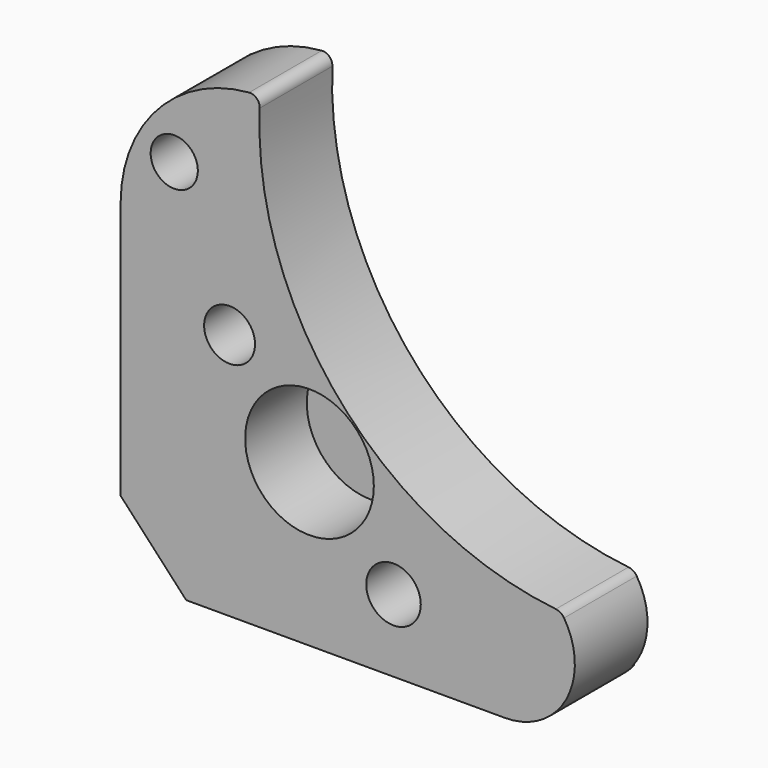
from build123d import *

# Parameters (mm, degrees)
F1_DEPTH = 17
F2_R     = 11.691727
F3_DEPTH = 14
F4_R     = 4.624372
F4_R_2   = 4.285959
F4_R_3   = 4.957168
F5_DEPTH = 25
F7_DEPTH = 0.5


with BuildPart() as f1:
    # F0 (on Front) → F1 (new body)
    with BuildSketch(Plane.XZ):
        with BuildLine():
            Line((-40, -27.427316), (-28.084865, -40.25))
            Line((-28.084865, -40.25), (29.84, -40.25))
            ThreePointArc((29.84, -40.25), (40.960822, -33.683297), (40.581307, -20.773989))
            ThreePointArc((40.581307, -20.773989), (39.938227, -20.134126), (39.080779, -19.837887))
            ThreePointArc((39.080779, -19.837887), (-0.21216, 0.836167), (-14.717551, 42.799785))
            ThreePointArc((-14.717551, 42.799785), (-15.264908, 44.170434), (-16.654855, 44.666745))
            ThreePointArc((-16.654855, 44.666745), (-33.272886, 36.568692), (-40, 19.35))
            Line((-40, 19.35), (-40, -27.427316))
        make_face()
    extrude(amount=F1_DEPTH)

    # F2 (on face) → F3 (cut)
    with BuildSketch(Plane.XZ.offset(17)):
        with Locations((-5.678192, -10.890958)):
            Circle(F2_R)
    extrude(amount=-F3_DEPTH, mode=Mode.SUBTRACT)

    # F4 (on face) → F5 (cut)
    with BuildSketch(Plane.XZ.offset(17)):
        with Locations((-20.199468, 4.74734)):
            Circle(F4_R)
        with Locations((-30.25266, 29.135641)):
            Circle(F4_R_2)
        with Locations((9.587764, -27.087769)):
            Circle(F4_R_3)
    extrude(amount=-F5_DEPTH, mode=Mode.SUBTRACT)

    # F6 (on face) → F7 (cut)
    with BuildSketch(Plane(origin=(0, 0, 0), x_dir=(-1, 0, 0), z_dir=(0, 1, 0))):
        with BuildLine():
            ThreePointArc((-37.470929, -34.75125), (10.350502, -10.34579), (29.774692, 39.706348))
            Line((29.774692, 39.706348), (29.774692, 45.691768))
            ThreePointArc((29.774692, 45.691768), (23.636454, 48.375894), (17.059354, 49.650356))
            Line((17.059354, 49.650356), (9.722393, 42.579803))
            ThreePointArc((9.722393, 42.579803), (-3.580862, 4.093924), (-39.617395, -14.866766))
            Line((-39.617395, -14.866766), (-44.810167, -18.106268))
            ThreePointArc((-44.810167, -18.106268), (-47.539999, -27.55), (-44.810167, -36.993732))
            Line((-44.810167, -36.993732), (-37.470929, -34.75125))
        make_face()
    extrude(amount=-F7_DEPTH, mode=Mode.SUBTRACT)


solid = f1.part
